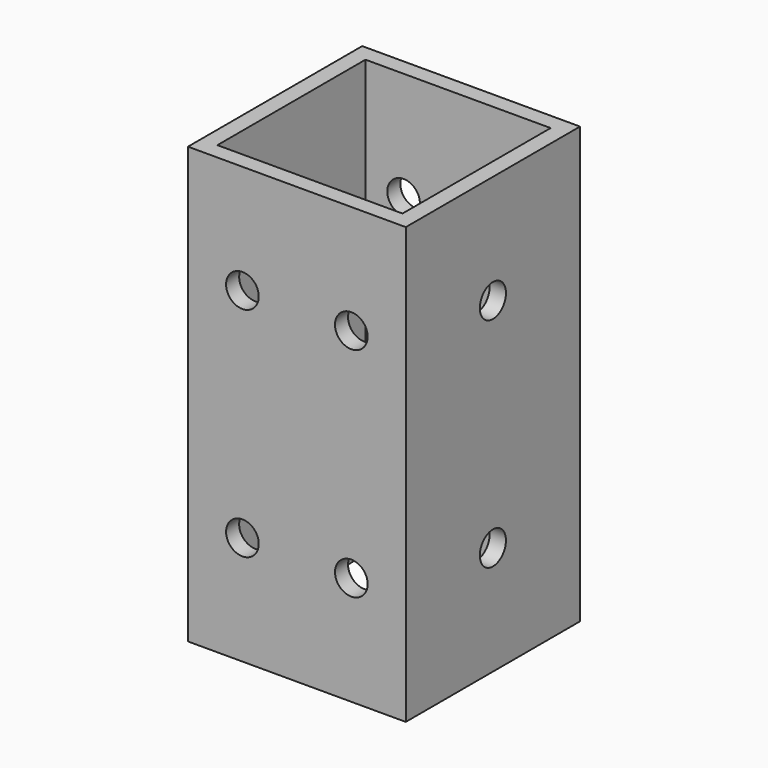
from build123d import *

# Parameters (mm, degrees)
SKETCH_W        = 40
SKETCH_H        = 40
PAD_DEPTH       = 80
SKETCH001_W     = 34
SKETCH001_H     = 34
POCKET_DEPTH    = 80
SKETCH002_R     = 3
POCKET001_DEPTH = 40
SKETCH003_R     = 3
POCKET002_DEPTH = 40


with BuildPart() as part:
    # Sketch → Pad (new body)
    with BuildSketch(Plane.XY):
        with Locations((20, 20)):
            Rectangle(SKETCH_W, SKETCH_H)
    extrude(amount=PAD_DEPTH)

    # Sketch001 (on Face6 of Pad) → Pocket (cut)
    with BuildSketch(Plane.XY.offset(80)):
        with Locations((20, 20)):
            Rectangle(SKETCH001_W, SKETCH001_H)
    extrude(amount=-POCKET_DEPTH, mode=Mode.SUBTRACT)

    # Sketch002 (on Face1 of Pocket) → Pocket001 (cut)
    with BuildSketch(Plane(origin=(0, 40, 0), x_dir=(-1, 0, 0), z_dir=(0, 1, 0))):
        with Locations((-30, 60)):
            Circle(SKETCH002_R)
        with Locations((-10, 60)):
            Circle(SKETCH002_R)
        with Locations((-30, 20)):
            Circle(SKETCH002_R)
        with Locations((-10, 20)):
            Circle(SKETCH002_R)
    extrude(amount=-POCKET001_DEPTH, mode=Mode.SUBTRACT)

    # Sketch003 (on Face5 of Pocket001) → Pocket002 (cut)
    with BuildSketch(Plane.YZ.offset(40)):
        with Locations((20, 60)):
            Circle(SKETCH003_R)
        with Locations((20, 20)):
            Circle(SKETCH003_R)
    extrude(amount=-POCKET002_DEPTH, mode=Mode.SUBTRACT)


solid = part.part
